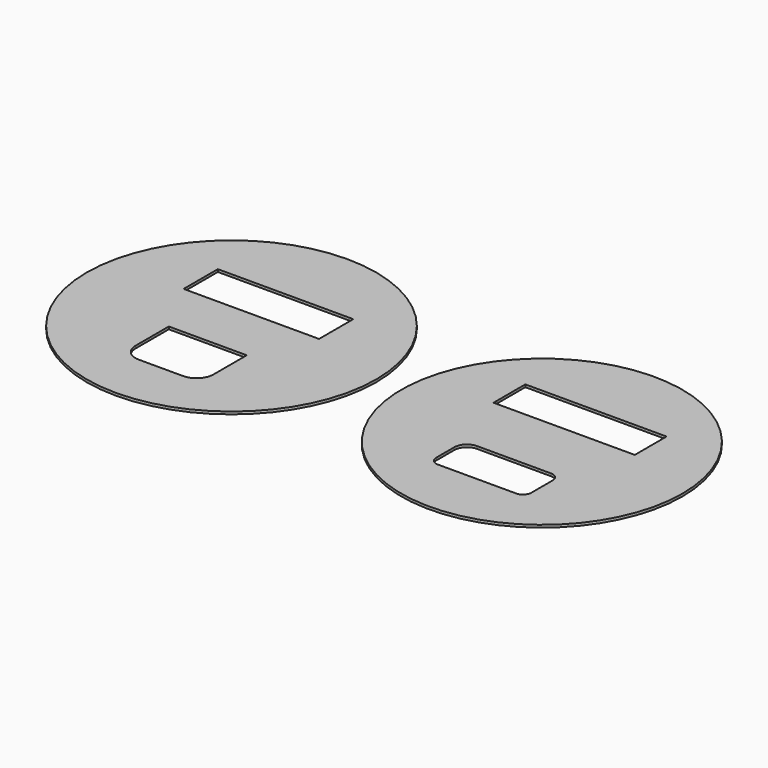
from build123d import *

# Parameters (mm, degrees)
F0_R     = 17.151398
F0_W     = 16.044303
F0_H     = 5.070605
F0_R_2   = 16.659285
F0_W_2   = 16.734904
F0_H_2   = 4.709331
F1_DEPTH = 0.3


with BuildPart() as f1:
    # F0 (on Top) → F1 (new body)
    with BuildSketch(Plane.XY):
        with Locations((-0.075044, 3.501162)):
            Circle(F0_R)
        with BuildLine():
            Line((-4.534587, -5.132242), (-4.534587, -0.207461))
            Line((-4.534587, -0.207461), (4.698456, -0.207461))
            Line((4.698456, -0.207461), (4.698456, -5.132242))
            ThreePointArc((4.698456, -5.132242), (4.112669, -6.546455), (2.698456, -7.132242))
            Line((2.698456, -7.132242), (-2.534587, -7.132242))
            ThreePointArc((-2.534587, -7.132242), (-3.948801, -6.546455), (-4.534587, -5.132242))
        make_face(mode=Mode.SUBTRACT)
        with Locations((-0.145107, 9.063422)):
            Rectangle(F0_W, F0_H, mode=Mode.SUBTRACT)
        with Locations((36.833085, 3.329914)):
            Circle(F0_R_2)
        with BuildLine():
            ThreePointArc((42.464035, -5.256274), (42.171141, -5.963381), (41.464035, -6.256274))
            Line((41.464035, -6.256274), (32.202136, -6.256274))
            ThreePointArc((32.202136, -6.256274), (31.495029, -5.963381), (31.202136, -5.256274))
            Line((31.202136, -5.256274), (31.202136, -2.601464))
            ThreePointArc((31.202136, -2.601464), (31.641475, -1.540804), (32.702136, -1.101464))
            Line((32.702136, -1.101464), (41.464035, -1.101464))
            ThreePointArc((41.464035, -1.101464), (42.171141, -1.394357), (42.464035, -2.101464))
            Line((42.464035, -2.101464), (42.464035, -5.256274))
        make_face(mode=Mode.SUBTRACT)
        with Locations((36.833085, 8.985413)):
            Rectangle(F0_W_2, F0_H_2, mode=Mode.SUBTRACT)
    extrude(amount=F1_DEPTH)


solid = f1.part
